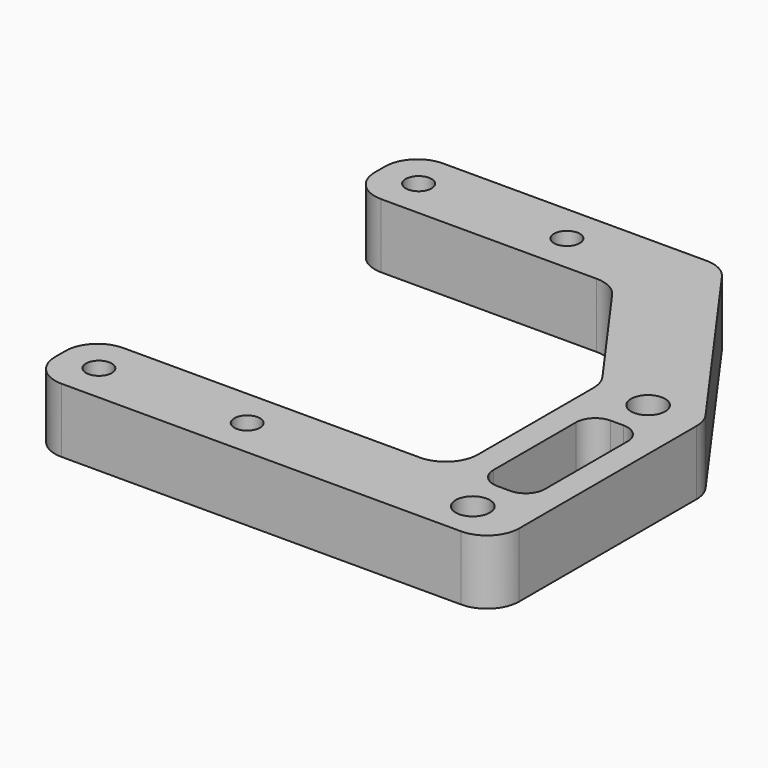
from build123d import *

# Parameters (mm, degrees)
F0_R     = 2
F0_R_2   = 2.65
F1_DEPTH = 10


with BuildPart() as f1:
    # F0 (on Top) → F1 (new body)
    with BuildSketch(Plane.XY):
        with BuildLine():
            Line((-5.035349, -10.106315), (56.964651, -10.106315))
            ThreePointArc((56.964651, -10.106315), (60.500185, -8.641849), (61.964651, -5.106315))
            Line((61.964651, -5.106315), (61.964651, 29.291359))
            ThreePointArc((61.964651, 29.291359), (61.726129, 30.817247), (61.033319, 32.19755))
            Line((61.033319, 32.19755), (39.888801, 61.799876))
            ThreePointArc((39.888801, 61.799876), (38.108041, 63.339523), (35.820133, 63.893685))
            Line((35.820133, 63.893685), (-5.035349, 63.893685))
            ThreePointArc((-5.035349, 63.893685), (-8.570883, 62.429219), (-10.035349, 58.893685))
            Line((-10.035349, 58.893685), (-10.035349, 56.893685))
            ThreePointArc((-10.035349, 56.893685), (-8.570883, 53.358151), (-5.035349, 51.893685))
            Line((-5.035349, 51.893685), (28.391562, 51.893685))
            ThreePointArc((28.391562, 51.893685), (30.67947, 51.339523), (32.460229, 49.799876))
            Line((32.460229, 49.799876), (45.033319, 32.19755))
            ThreePointArc((45.033319, 32.19755), (45.726129, 30.817247), (45.964651, 29.291359))
            Line((45.964651, 29.291359), (45.964651, 6.893685))
            ThreePointArc((45.964651, 6.893685), (44.500185, 3.358151), (40.964651, 1.893685))
            Line((40.964651, 1.893685), (-5.035349, 1.893685))
            ThreePointArc((-5.035349, 1.893685), (-8.570883, 0.429219), (-10.035349, -3.106315))
            Line((-10.035349, -3.106315), (-10.035349, -5.106315))
            ThreePointArc((-10.035349, -5.106315), (-8.570883, -8.641849), (-5.035349, -10.106315))
        make_face()
        with Locations((-4.035349, -4.106315)):
            Circle(F0_R, mode=Mode.SUBTRACT)
        with Locations((18.964651, -4.106315)):
            Circle(F0_R, mode=Mode.SUBTRACT)
        with Locations((53.964651, -4.106315)):
            Circle(F0_R_2, mode=Mode.SUBTRACT)
        with BuildLine():
            ThreePointArc((49.964651, 20.893685), (50.843331, 23.015005), (52.964651, 23.893685))
            Line((52.964651, 23.893685), (54.964651, 23.893685))
            ThreePointArc((54.964651, 23.893685), (57.085972, 23.015005), (57.964651, 20.893685))
            Line((57.964651, 20.893685), (57.964651, 4.893685))
            ThreePointArc((57.964651, 4.893685), (57.085972, 2.772364), (54.964651, 1.893685))
            Line((54.964651, 1.893685), (52.964651, 1.893685))
            ThreePointArc((52.964651, 1.893685), (50.843331, 2.772364), (49.964651, 4.893685))
            Line((49.964651, 4.893685), (49.964651, 20.893685))
        make_face(mode=Mode.SUBTRACT)
        with Locations((-4.035349, 57.893685)):
            Circle(F0_R, mode=Mode.SUBTRACT)
        with Locations((18.964651, 57.893685)):
            Circle(F0_R, mode=Mode.SUBTRACT)
        with Locations((53.964651, 29.893685)):
            Circle(F0_R_2, mode=Mode.SUBTRACT)
        with BuildLine():
            Line((-5.035349, -10.106315), (56.964651, -10.106315))
            ThreePointArc((56.964651, -10.106315), (60.500185, -8.641849), (61.964651, -5.106315))
            Line((61.964651, -5.106315), (61.964651, 29.291359))
            ThreePointArc((61.964651, 29.291359), (61.726129, 30.817247), (61.033319, 32.19755))
            Line((61.033319, 32.19755), (39.888801, 61.799876))
            ThreePointArc((39.888801, 61.799876), (38.108041, 63.339523), (35.820133, 63.893685))
            Line((35.820133, 63.893685), (-5.035349, 63.893685))
            ThreePointArc((-5.035349, 63.893685), (-8.570883, 62.429219), (-10.035349, 58.893685))
            Line((-10.035349, 58.893685), (-10.035349, 56.893685))
            ThreePointArc((-10.035349, 56.893685), (-8.570883, 53.358151), (-5.035349, 51.893685))
            Line((-5.035349, 51.893685), (28.391562, 51.893685))
            ThreePointArc((28.391562, 51.893685), (30.67947, 51.339523), (32.460229, 49.799876))
            Line((32.460229, 49.799876), (45.033319, 32.19755))
            ThreePointArc((45.033319, 32.19755), (45.726129, 30.817247), (45.964651, 29.291359))
            Line((45.964651, 29.291359), (45.964651, 6.893685))
            ThreePointArc((45.964651, 6.893685), (44.500185, 3.358151), (40.964651, 1.893685))
            Line((40.964651, 1.893685), (-5.035349, 1.893685))
            ThreePointArc((-5.035349, 1.893685), (-8.570883, 0.429219), (-10.035349, -3.106315))
            Line((-10.035349, -3.106315), (-10.035349, -5.106315))
            ThreePointArc((-10.035349, -5.106315), (-8.570883, -8.641849), (-5.035349, -10.106315))
        make_face()
        with Locations((-4.035349, -4.106315)):
            Circle(F0_R, mode=Mode.SUBTRACT)
        with Locations((18.964651, -4.106315)):
            Circle(F0_R, mode=Mode.SUBTRACT)
        with Locations((53.964651, -4.106315)):
            Circle(F0_R_2, mode=Mode.SUBTRACT)
        with BuildLine():
            ThreePointArc((49.964651, 20.893685), (50.843331, 23.015005), (52.964651, 23.893685))
            Line((52.964651, 23.893685), (54.964651, 23.893685))
            ThreePointArc((54.964651, 23.893685), (57.085972, 23.015005), (57.964651, 20.893685))
            Line((57.964651, 20.893685), (57.964651, 4.893685))
            ThreePointArc((57.964651, 4.893685), (57.085972, 2.772364), (54.964651, 1.893685))
            Line((54.964651, 1.893685), (52.964651, 1.893685))
            ThreePointArc((52.964651, 1.893685), (50.843331, 2.772364), (49.964651, 4.893685))
            Line((49.964651, 4.893685), (49.964651, 20.893685))
        make_face(mode=Mode.SUBTRACT)
        with Locations((-4.035349, 57.893685)):
            Circle(F0_R, mode=Mode.SUBTRACT)
        with Locations((18.964651, 57.893685)):
            Circle(F0_R, mode=Mode.SUBTRACT)
        with Locations((53.964651, 29.893685)):
            Circle(F0_R_2, mode=Mode.SUBTRACT)
    extrude(amount=F1_DEPTH)


solid = f1.part
